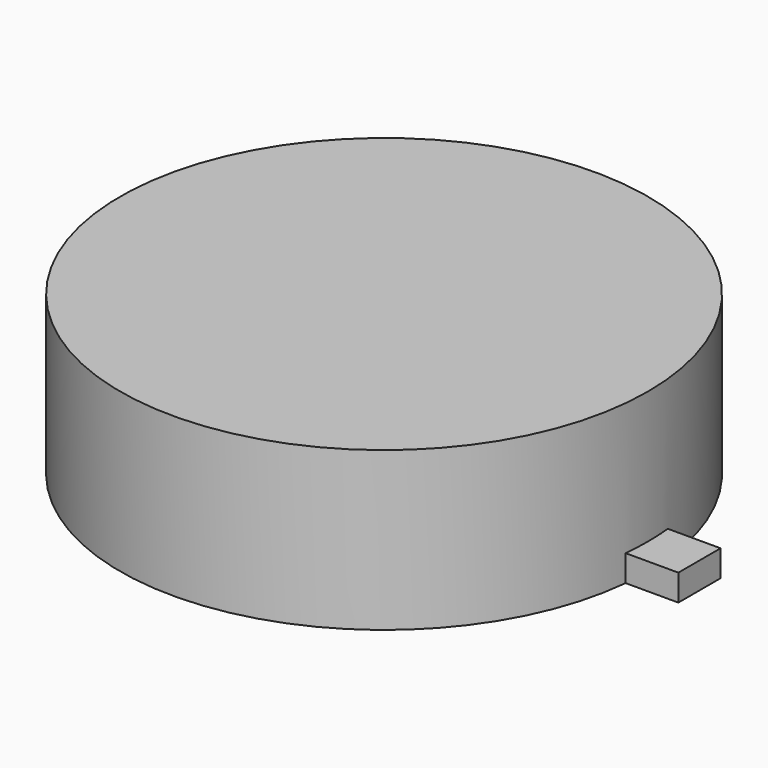
from build123d import *

# Parameters (mm, degrees)
SKETCH_R     = 5
PAD_DEPTH    = 3
PAD001_DEPTH = 0.5


with BuildPart() as part:
    # Sketch → Pad (new body)
    with BuildSketch(Plane.XY):
        Circle(SKETCH_R)
    extrude(amount=PAD_DEPTH)

    # Sketch001 → Pad001 (join)
    with BuildSketch(Plane.XY):
        with BuildLine():
            Line((4.974937, 0.5), (5.974937, 0.5))
            Line((5.974937, 0.5), (5.974937, -0.5))
            Line((5.974937, -0.5), (4.974937, -0.5))
            ThreePointArc((4.974937, -0.5), (5, 0), (4.974937, 0.5))
        make_face()
    extrude(amount=PAD001_DEPTH)


solid = part.part
